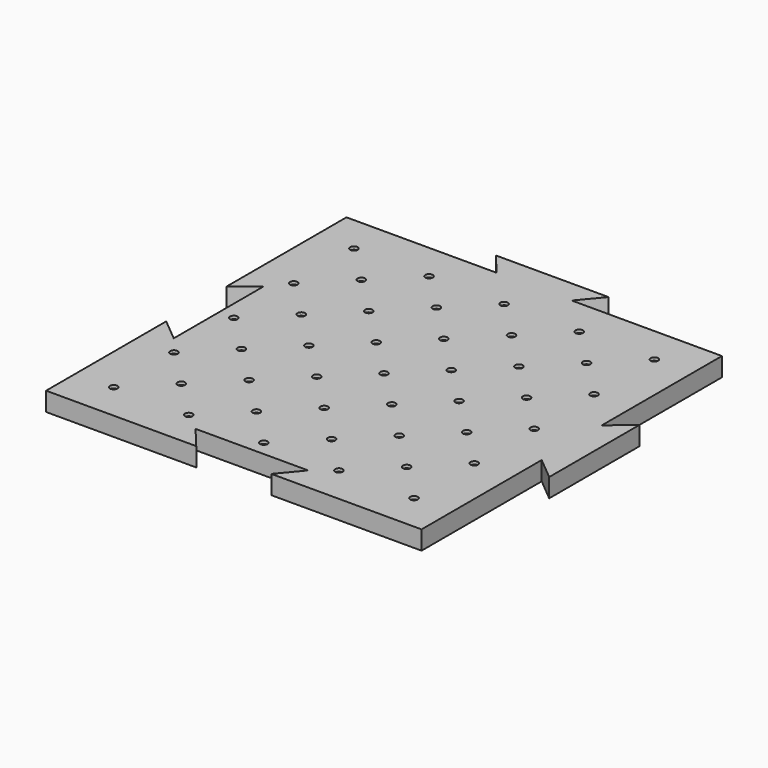
from build123d import *

# Parameters (mm, degrees)
F0_W     = 127
F0_H     = 127
F0_R     = 1.27
F1_DEPTH = 6.35
F3_DEPTH = 5.334
F5_DEPTH = 6.35
F6_DEPTH = 6.351


with BuildPart() as f1:
    # F0 (on Top) → F1 (new body)
    with BuildSketch(Plane.XY):
        with Locations((0, 0.1892161012)):
            Rectangle(F0_W, F0_H)
        with Locations((-50.8, -50.6107838988)):
            Circle(F0_R, mode=Mode.SUBTRACT)
        with Locations((-38.1, -37.8634798735)):
            Circle(F0_R, mode=Mode.SUBTRACT)
        with Locations((-25.4, -50.6107838988)):
            Circle(F0_R, mode=Mode.SUBTRACT)
        with Locations((-12.7, -37.8634798735)):
            Circle(F0_R, mode=Mode.SUBTRACT)
        with Locations((-50.8, -25.1161758482)):
            Circle(F0_R, mode=Mode.SUBTRACT)
        with Locations((-50.8, 0.1892161012)):
            Circle(F0_R, mode=Mode.SUBTRACT)
        with Locations((-38.1, -12.4634798735)):
            Circle(F0_R, mode=Mode.SUBTRACT)
        with Locations((-25.4, -25.1161758482)):
            Circle(F0_R, mode=Mode.SUBTRACT)
        with Locations((-12.7, -12.368871823)):
            Circle(F0_R, mode=Mode.SUBTRACT)
        with Locations((0, -50.6107838988)):
            Circle(F0_R, mode=Mode.SUBTRACT)
        with Locations((25.4, -50.6107838988)):
            Circle(F0_R, mode=Mode.SUBTRACT)
        with Locations((12.7, -37.8634798735)):
            Circle(F0_R, mode=Mode.SUBTRACT)
        with Locations((50.8, -50.6107838988)):
            Circle(F0_R, mode=Mode.SUBTRACT)
        with Locations((38.1, -37.8634798735)):
            Circle(F0_R, mode=Mode.SUBTRACT)
        with Locations((0, -25.1161758482)):
            Circle(F0_R, mode=Mode.SUBTRACT)
        with Locations((25.4, -25.1161758482)):
            Circle(F0_R, mode=Mode.SUBTRACT)
        with Locations((12.7, -12.368871823)):
            Circle(F0_R, mode=Mode.SUBTRACT)
        with Locations((50.8, -25.1161758482)):
            Circle(F0_R, mode=Mode.SUBTRACT)
        with Locations((38.1, -12.4634798735)):
            Circle(F0_R, mode=Mode.SUBTRACT)
        with Locations((-38.1, 12.8419120759)):
            Circle(F0_R, mode=Mode.SUBTRACT)
        with Locations((-50.8, 25.4946080506)):
            Circle(F0_R, mode=Mode.SUBTRACT)
        with Locations((-25.4, 0.1892161012)):
            Circle(F0_R, mode=Mode.SUBTRACT)
        with Locations((-12.7, 12.7473040253)):
            Circle(F0_R, mode=Mode.SUBTRACT)
        with Locations((-25.4, 25.4946080506)):
            Circle(F0_R, mode=Mode.SUBTRACT)
        with Locations((-38.1, 38.2419120759)):
            Circle(F0_R, mode=Mode.SUBTRACT)
        with Locations((-50.8, 50.9892161012)):
            Circle(F0_R, mode=Mode.SUBTRACT)
        with Locations((-12.7, 38.2419120759)):
            Circle(F0_R, mode=Mode.SUBTRACT)
        with Locations((-25.4, 50.9892161012)):
            Circle(F0_R, mode=Mode.SUBTRACT)
        with Locations((0, 0.1892161012)):
            Circle(F0_R, mode=Mode.SUBTRACT)
        with Locations((12.7, 12.7473040253)):
            Circle(F0_R, mode=Mode.SUBTRACT)
        with Locations((25.4, 0.1892161012)):
            Circle(F0_R, mode=Mode.SUBTRACT)
        with Locations((0, 25.4946080506)):
            Circle(F0_R, mode=Mode.SUBTRACT)
        with Locations((25.4, 25.4946080506)):
            Circle(F0_R, mode=Mode.SUBTRACT)
        with Locations((38.1, 12.8419120759)):
            Circle(F0_R, mode=Mode.SUBTRACT)
        with Locations((50.8, 0.1892161012)):
            Circle(F0_R, mode=Mode.SUBTRACT)
        with Locations((50.8, 25.4946080506)):
            Circle(F0_R, mode=Mode.SUBTRACT)
        with Locations((12.7, 38.2419120759)):
            Circle(F0_R, mode=Mode.SUBTRACT)
        with Locations((0, 50.9892161012)):
            Circle(F0_R, mode=Mode.SUBTRACT)
        with Locations((25.4, 50.9892161012)):
            Circle(F0_R, mode=Mode.SUBTRACT)
        with Locations((38.1, 38.2419120759)):
            Circle(F0_R, mode=Mode.SUBTRACT)
        with Locations((50.8, 50.9892161012)):
            Circle(F0_R, mode=Mode.SUBTRACT)
    extrude(amount=F1_DEPTH)

    # F2 (on face) → F3 (cut)
    with BuildSketch(Plane(origin=(0, 0, 0), x_dir=(1, 0, 0), z_dir=(0, 0, -1))):
        Polygon((-49.3335303163, 53.1507838988), (-52.2664696837, 53.1507838988), (-53.7329393675, 50.6107838988), (-52.2664696837, 48.0707838988), (-49.3335303163, 48.0707838988), (-47.8670606325, 50.6107838988), align=None)
        Polygon((-36.6335303163, 40.4034798735), (-39.5664696837, 40.4034798735), (-41.0329393675, 37.8634798735), (-39.5664696837, 35.3234798735), (-36.6335303163, 35.3234798735), (-35.1670606325, 37.8634798735), align=None)
        Polygon((-35.1670606325, 12.4634798735), (-36.6335303163, 15.0034798735), (-39.5664696837, 15.0034798735), (-41.0329393675, 12.4634798735), (-39.5664696837, 9.9234798735), (-36.6335303163, 9.9234798735), align=None)
        Polygon((-49.3335303163, 22.6707838988), (-47.8670606325, 25.2107838988), (-49.3335303163, 27.7507838988), (-52.2664696837, 27.7507838988), (-53.7329393675, 25.2107838988), (-52.2664696837, 22.6707838988), align=None)
        Polygon((-35.1670606325, -12.9365201265), (-36.6335303163, -10.3965201265), (-39.5664696837, -10.3965201265), (-41.0329393675, -12.9365201265), (-39.5664696837, -15.4765201265), (-36.6335303163, -15.4765201265), align=None)
        Polygon((-49.3335303163, -2.7292161012), (-47.8670606325, -0.1892161012), (-49.3335303163, 2.3507838988), (-52.2664696837, 2.3507838988), (-53.7329393675, -0.1892161012), (-52.2664696837, -2.7292161012), align=None)
        Polygon((-35.1670606325, -38.3365201265), (-36.6335303163, -35.7965201265), (-39.5664696837, -35.7965201265), (-41.0329393675, -38.3365201265), (-39.5664696837, -40.8765201265), (-36.6335303163, -40.8765201265), align=None)
        Polygon((-49.3335303163, -28.1292161012), (-47.8670606325, -25.5892161012), (-49.3335303163, -23.0492161012), (-52.2664696837, -23.0492161012), (-53.7329393675, -25.5892161012), (-52.2664696837, -28.1292161012), align=None)
        Polygon((-49.3335303163, -53.5292161012), (-47.8670606325, -50.9892161012), (-49.3335303163, -48.4492161012), (-52.2664696837, -48.4492161012), (-53.7329393675, -50.9892161012), (-52.2664696837, -53.5292161012), align=None)
        Polygon((-9.7670606325, 37.8634798735), (-11.2335303163, 40.4034798735), (-14.1664696837, 40.4034798735), (-15.6329393675, 37.8634798735), (-14.1664696837, 35.3234798735), (-11.2335303163, 35.3234798735), align=None)
        Polygon((-23.9335303163, 48.0707838988), (-22.4670606325, 50.6107838988), (-23.9335303163, 53.1507838988), (-26.8664696837, 53.1507838988), (-28.3329393675, 50.6107838988), (-26.8664696837, 48.0707838988), align=None)
        Polygon((-9.7670606325, 12.4634798735), (-11.2335303163, 15.0034798735), (-14.1664696837, 15.0034798735), (-15.6329393675, 12.4634798735), (-14.1664696837, 9.9234798735), (-11.2335303163, 9.9234798735), align=None)
        Polygon((-23.9335303163, 22.6707838988), (-22.4670606325, 25.2107838988), (-23.9335303163, 27.7507838988), (-26.8664696837, 27.7507838988), (-28.3329393675, 25.2107838988), (-26.8664696837, 22.6707838988), align=None)
        Polygon((-9.7670606325, -12.9365201265), (-11.2335303163, -10.3965201265), (-14.1664696837, -10.3965201265), (-15.6329393675, -12.9365201265), (-14.1664696837, -15.4765201265), (-11.2335303163, -15.4765201265), align=None)
        Polygon((-23.9335303163, -2.7292161012), (-22.4670606325, -0.1892161012), (-23.9335303163, 2.3507838988), (-26.8664696837, 2.3507838988), (-28.3329393675, -0.1892161012), (-26.8664696837, -2.7292161012), align=None)
        Polygon((-9.7670606325, -38.3365201265), (-11.2335303163, -35.7965201265), (-14.1664696837, -35.7965201265), (-15.6329393675, -38.3365201265), (-14.1664696837, -40.8765201265), (-11.2335303163, -40.8765201265), align=None)
        Polygon((-23.9335303163, -28.1292161012), (-22.4670606325, -25.5892161012), (-23.9335303163, -23.0492161012), (-26.8664696837, -23.0492161012), (-28.3329393675, -25.5892161012), (-26.8664696837, -28.1292161012), align=None)
        Polygon((-23.9335303163, -53.5292161012), (-22.4670606325, -50.9892161012), (-23.9335303163, -48.4492161012), (-26.8664696837, -48.4492161012), (-28.3329393675, -50.9892161012), (-26.8664696837, -53.5292161012), align=None)
        Polygon((15.6329393675, 37.8634798735), (14.1664696837, 40.4034798735), (11.2335303163, 40.4034798735), (9.7670606325, 37.8634798735), (11.2335303163, 35.3234798735), (14.1664696837, 35.3234798735), align=None)
        Polygon((1.4664696837, 48.0707838988), (2.9329393675, 50.6107838988), (1.4664696837, 53.1507838988), (-1.4664696837, 53.1507838988), (-2.9329393675, 50.6107838988), (-1.4664696837, 48.0707838988), align=None)
        Polygon((15.6329393675, 12.4634798735), (14.1664696837, 15.0034798735), (11.2335303163, 15.0034798735), (9.7670606325, 12.4634798735), (11.2335303163, 9.9234798735), (14.1664696837, 9.9234798735), align=None)
        Polygon((1.4664696837, 22.6707838988), (2.9329393675, 25.2107838988), (1.4664696837, 27.7507838988), (-1.4664696837, 27.7507838988), (-2.9329393675, 25.2107838988), (-1.4664696837, 22.6707838988), align=None)
        Polygon((15.6329393675, -12.9365201265), (14.1664696837, -10.3965201265), (11.2335303163, -10.3965201265), (9.7670606325, -12.9365201265), (11.2335303163, -15.4765201265), (14.1664696837, -15.4765201265), align=None)
        Polygon((1.4664696837, -2.7292161012), (2.9329393675, -0.1892161012), (1.4664696837, 2.3507838988), (-1.4664696837, 2.3507838988), (-2.9329393675, -0.1892161012), (-1.4664696837, -2.7292161012), align=None)
        Polygon((15.6329393675, -38.3365201265), (14.1664696837, -35.7965201265), (11.2335303163, -35.7965201265), (9.7670606325, -38.3365201265), (11.2335303163, -40.8765201265), (14.1664696837, -40.8765201265), align=None)
        Polygon((1.4664696837, -28.1292161012), (2.9329393675, -25.5892161012), (1.4664696837, -23.0492161012), (-1.4664696837, -23.0492161012), (-2.9329393675, -25.5892161012), (-1.4664696837, -28.1292161012), align=None)
        Polygon((1.4664696837, -53.5292161012), (2.9329393675, -50.9892161012), (1.4664696837, -48.4492161012), (-1.4664696837, -48.4492161012), (-2.9329393675, -50.9892161012), (-1.4664696837, -53.5292161012), align=None)
        Polygon((41.0329393675, 37.8634798735), (39.5664696837, 40.4034798735), (36.6335303163, 40.4034798735), (35.1670606325, 37.8634798735), (36.6335303163, 35.3234798735), (39.5664696837, 35.3234798735), align=None)
        Polygon((26.8664696837, 48.0707838988), (28.3329393675, 50.6107838988), (26.8664696837, 53.1507838988), (23.9335303163, 53.1507838988), (22.4670606325, 50.6107838988), (23.9335303163, 48.0707838988), align=None)
        Polygon((41.0329393675, 12.4634798735), (39.5664696837, 15.0034798735), (36.6335303163, 15.0034798735), (35.1670606325, 12.4634798735), (36.6335303163, 9.9234798735), (39.5664696837, 9.9234798735), align=None)
        Polygon((26.8664696837, 22.6707838988), (28.3329393675, 25.2107838988), (26.8664696837, 27.7507838988), (23.9335303163, 27.7507838988), (22.4670606325, 25.2107838988), (23.9335303163, 22.6707838988), align=None)
        Polygon((41.0329393675, -12.9365201265), (39.5664696837, -10.3965201265), (36.6335303163, -10.3965201265), (35.1670606325, -12.9365201265), (36.6335303163, -15.4765201265), (39.5664696837, -15.4765201265), align=None)
        Polygon((26.8664696837, -2.7292161012), (28.3329393675, -0.1892161012), (26.8664696837, 2.3507838988), (23.9335303163, 2.3507838988), (22.4670606325, -0.1892161012), (23.9335303163, -2.7292161012), align=None)
        Polygon((41.0329393675, -38.3365201265), (39.5664696837, -35.7965201265), (36.6335303163, -35.7965201265), (35.1670606325, -38.3365201265), (36.6335303163, -40.8765201265), (39.5664696837, -40.8765201265), align=None)
        Polygon((26.8664696837, -28.1292161012), (28.3329393675, -25.5892161012), (26.8664696837, -23.0492161012), (23.9335303163, -23.0492161012), (22.4670606325, -25.5892161012), (23.9335303163, -28.1292161012), align=None)
        Polygon((26.8664696837, -53.5292161012), (28.3329393675, -50.9892161012), (26.8664696837, -48.4492161012), (23.9335303163, -48.4492161012), (22.4670606325, -50.9892161012), (23.9335303163, -53.5292161012), align=None)
        Polygon((52.2664696837, 48.0707838988), (53.7329393675, 50.6107838988), (52.2664696837, 53.1507838988), (49.3335303163, 53.1507838988), (47.8670606325, 50.6107838988), (49.3335303163, 48.0707838988), align=None)
        Polygon((52.2664696837, 22.6707838988), (53.7329393675, 25.2107838988), (52.2664696837, 27.7507838988), (49.3335303163, 27.7507838988), (47.8670606325, 25.2107838988), (49.3335303163, 22.6707838988), align=None)
        Polygon((52.2664696837, -2.7292161012), (53.7329393675, -0.1892161012), (52.2664696837, 2.3507838988), (49.3335303163, 2.3507838988), (47.8670606325, -0.1892161012), (49.3335303163, -2.7292161012), align=None)
        Polygon((52.2664696837, -28.1292161012), (53.7329393675, -25.5892161012), (52.2664696837, -23.0492161012), (49.3335303163, -23.0492161012), (47.8670606325, -25.5892161012), (49.3335303163, -28.1292161012), align=None)
        Polygon((52.2664696837, -53.5292161012), (53.7329393675, -50.9892161012), (52.2664696837, -48.4492161012), (49.3335303163, -48.4492161012), (47.8670606325, -50.9892161012), (49.3335303163, -53.5292161012), align=None)
    extrude(amount=-F3_DEPTH, mode=Mode.SUBTRACT)

    # F4 (on face) → F5 (join)
    with BuildSketch(Plane.XY.offset(6.35)):
        Polygon((-19.05, 71.3092161012), (-12.7, 63.6892161012), (12.7, 63.6892161012), (19.05, 71.3092161012), align=None)
        Polygon((63.5, 12.8892161012), (63.5, 0.1892161012), (71.12, 0.1892161012), (71.12, 19.2392161012), align=None)
        Polygon((63.5, 0.1892161012), (63.5, -12.5107838988), (71.12, -18.8607838988), (71.12, 0.1892161012), align=None)
    extrude(amount=-F5_DEPTH)

    # F4 (on face) → F6 (cut, through all)
    with BuildSketch(Plane.XY.offset(6.35)):
        Polygon((-63.5, 12.8892161012), (-63.5, 0.1892161012), (-55.88, 0.1892161012), (-55.88, 19.2392161012), align=None)
        Polygon((-63.5, 0.1892161012), (-63.5, -12.5107838988), (-55.88, -18.8607838988), (-55.88, 0.1892161012), align=None)
        Polygon((-19.05, -55.6907838988), (-12.7, -63.3107838988), (0, -63.3107838988), (0, -55.6907838988), align=None)
        Polygon((0, -55.6907838988), (0, -63.3107838988), (12.7, -63.3107838988), (19.05, -55.6907838988), align=None)
    extrude(amount=-F6_DEPTH, mode=Mode.SUBTRACT)


solid = f1.part
